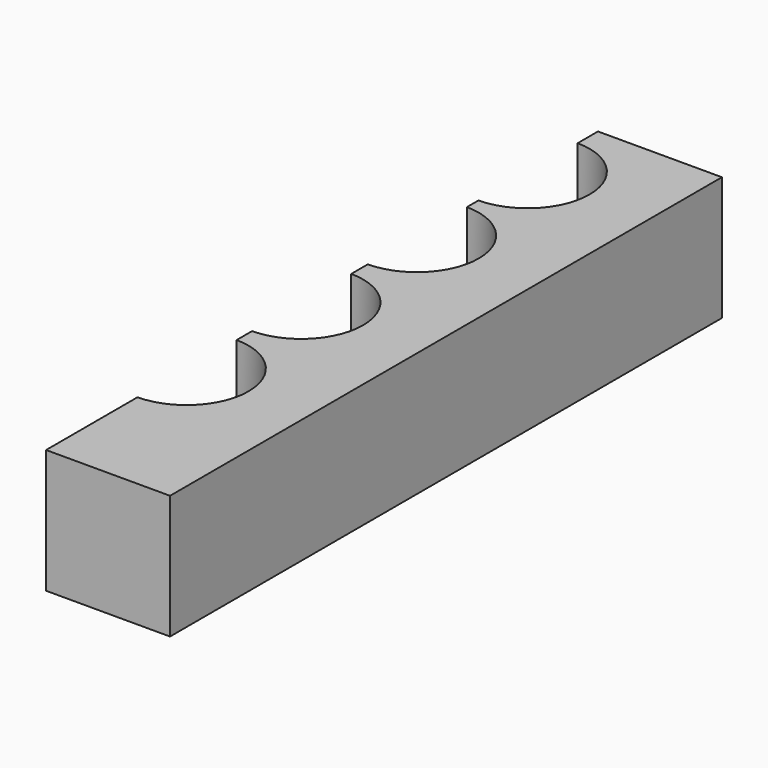
from build123d import *

# Parameters (mm, degrees)
F1_DEPTH = 25
F2_DEPTH = 3
F3_DEPTH = 15
F4_W     = 25
F4_H     = 139.1576522589
F5_DEPTH = 3


with BuildPart() as f1:
    # F0 (on Top) → F1 (new body)
    with BuildSketch(Plane.XY):
        with BuildLine():
            Line((54.0989699066, 72.6331850421), (29.0989699066, 72.6331850421))
            Line((29.0989699066, 72.6331850421), (29.0989699066, 67.49929167))
            ThreePointArc((29.0989699066, 67.49929167), (37.8737569223, 63.8034575596), (41.5, 54.9996834778))
            ThreePointArc((41.5, 54.9996834778), (37.8737569223, 46.195909396), (29.0989699066, 42.5000752856))
            Line((29.0989699066, 42.5000752856), (29.0989699066, 39.5786203772))
            ThreePointArc((29.0989699066, 39.5786203772), (37.8737569223, 35.8827862669), (41.5, 27.079012185))
            ThreePointArc((41.5, 27.079012185), (37.8737569223, 18.2752381032), (29.0989699066, 14.5794039929))
            Line((29.0989699066, 14.5794039929), (29.0989699066, 10.4122504635))
            ThreePointArc((29.0989699066, 10.4122504635), (37.8737569223, 6.7164163532), (41.5, -2.0873577287))
            ThreePointArc((41.5, -2.0873577287), (37.8737569223, -10.8911318105), (29.0989699066, -14.5869659208))
            Line((29.0989699066, -14.5869659208), (29.0989699066, -18.4864327763))
            ThreePointArc((29.0989699066, -18.4864327763), (37.8737569223, -22.1822668866), (41.5, -30.9860409684))
            ThreePointArc((41.5, -30.9860409684), (37.8737569223, -39.7898150502), (29.0989699066, -43.4856491606))
            Line((29.0989699066, -43.4856491606), (29.0989699066, -66.5244672167))
            Line((29.0989699066, -66.5244672167), (54.0989699066, -66.5244672167))
            Line((54.0989699066, -66.5244672167), (54.0989699066, 72.6331850421))
        make_face()
    extrude(amount=F1_DEPTH)



with BuildPart() as f2:
    # F0 (on Top) → F2 (new body)
    with BuildSketch(Plane.XY):
        with BuildLine():
            ThreePointArc((35.5, 54.9996834778), (33.6310530332, 59.5607521907), (29.0989699066, 61.4989299693))
            Line((29.0989699066, 61.4989299693), (29.0989699066, 48.5004369863))
            ThreePointArc((29.0989699066, 48.5004369863), (33.6310530332, 50.4386147649), (35.5, 54.9996834778))
        make_face()
    extrude(amount=F2_DEPTH)


with BuildPart() as f2b:
    # F0 (on Top) → F2, piece 2 (new body)
    with BuildSketch(Plane.XY):
        with BuildLine():
            ThreePointArc((35.5, 27.079012185), (33.6310530332, 31.6400808979), (29.0989699066, 33.5782586765))
            Line((29.0989699066, 33.5782586765), (29.0989699066, 20.5797656935))
            ThreePointArc((29.0989699066, 20.5797656935), (33.6310530332, 22.5179434721), (35.5, 27.079012185))
        make_face()
    extrude(amount=F2_DEPTH)


with BuildPart() as f2c:
    # F0 (on Top) → F2, piece 3 (new body)
    with BuildSketch(Plane.XY):
        with BuildLine():
            Line((29.0989699066, 4.4118887628), (29.0989699066, -8.5866042202))
            ThreePointArc((29.0989699066, -8.5866042202), (33.6310530332, -6.6484264416), (35.5, -2.0873577287))
            ThreePointArc((35.5, -2.0873577287), (33.6310530332, 2.4737109842), (29.0989699066, 4.4118887628))
        make_face()
    extrude(amount=F2_DEPTH)


with BuildPart() as f2d:
    # F0 (on Top) → F2, piece 4 (new body)
    with BuildSketch(Plane.XY):
        with BuildLine():
            Line((29.0989699066, -24.4867944769), (29.0989699066, -37.4852874599))
            ThreePointArc((29.0989699066, -37.4852874599), (33.6310530332, -35.5471096813), (35.5, -30.9860409684))
            ThreePointArc((35.5, -30.9860409684), (33.6310530332, -26.4249722555), (29.0989699066, -24.4867944769))
        make_face()
    extrude(amount=F2_DEPTH)


with BuildPart() as f1_1:
    add(f1.part)

    add(f2.part)  # F3 merges F2

    add(f2b.part)  # F3 merges F2b

    add(f2c.part)  # F3 merges F2c

    add(f2d.part)  # F3 merges F2d
    # F0 (on Top) → F3 (join)
    with BuildSketch(Plane.XY):
        with BuildLine():
            ThreePointArc((41.5, 54.9996834778), (37.8737569223, 63.8034575596), (29.0989699066, 67.49929167))
            Line((29.0989699066, 67.49929167), (29.0989699066, 61.4989299693))
            ThreePointArc((29.0989699066, 61.4989299693), (33.6310530332, 59.5607521907), (35.5, 54.9996834778))
            ThreePointArc((35.5, 54.9996834778), (33.6310530332, 50.4386147649), (29.0989699066, 48.5004369863))
            Line((29.0989699066, 48.5004369863), (29.0989699066, 42.5000752856))
            ThreePointArc((29.0989699066, 42.5000752856), (37.8737569223, 46.195909396), (41.5, 54.9996834778))
        make_face()
        with BuildLine():
            ThreePointArc((41.5, 27.079012185), (37.8737569223, 35.8827862669), (29.0989699066, 39.5786203772))
            Line((29.0989699066, 39.5786203772), (29.0989699066, 33.5782586765))
            ThreePointArc((29.0989699066, 33.5782586765), (33.6310530332, 31.6400808979), (35.5, 27.079012185))
            ThreePointArc((35.5, 27.079012185), (33.6310530332, 22.5179434721), (29.0989699066, 20.5797656935))
            Line((29.0989699066, 20.5797656935), (29.0989699066, 14.5794039929))
            ThreePointArc((29.0989699066, 14.5794039929), (37.8737569223, 18.2752381032), (41.5, 27.079012185))
        make_face()
        with BuildLine():
            Line((29.0989699066, -8.5866042202), (29.0989699066, -14.5869659208))
            ThreePointArc((29.0989699066, -14.5869659208), (37.8737569223, -10.8911318105), (41.5, -2.0873577287))
            ThreePointArc((41.5, -2.0873577287), (37.8737569223, 6.7164163532), (29.0989699066, 10.4122504635))
            Line((29.0989699066, 10.4122504635), (29.0989699066, 4.4118887628))
            ThreePointArc((29.0989699066, 4.4118887628), (33.6310530332, 2.4737109842), (35.5, -2.0873577287))
            ThreePointArc((35.5, -2.0873577287), (33.6310530332, -6.6484264416), (29.0989699066, -8.5866042202))
        make_face()
        with BuildLine():
            Line((29.0989699066, -37.4852874599), (29.0989699066, -43.4856491606))
            ThreePointArc((29.0989699066, -43.4856491606), (37.8737569223, -39.7898150502), (41.5, -30.9860409684))
            ThreePointArc((41.5, -30.9860409684), (37.8737569223, -22.1822668866), (29.0989699066, -18.4864327763))
            Line((29.0989699066, -18.4864327763), (29.0989699066, -24.4867944769))
            ThreePointArc((29.0989699066, -24.4867944769), (33.6310530332, -26.4249722555), (35.5, -30.9860409684))
            ThreePointArc((35.5, -30.9860409684), (33.6310530332, -35.5471096813), (29.0989699066, -37.4852874599))
        make_face()
    extrude(amount=F3_DEPTH)

    # F4 (on face) → F5 (join)
    with BuildSketch(Plane(origin=(0, 0, 0), x_dir=(1, 0, 0), z_dir=(0, 0, -1))):
        with Locations((41.5989699066, -3.0543589127)):
            Rectangle(F4_W, F4_H)
    extrude(amount=-F5_DEPTH)


solid = f1_1.part
